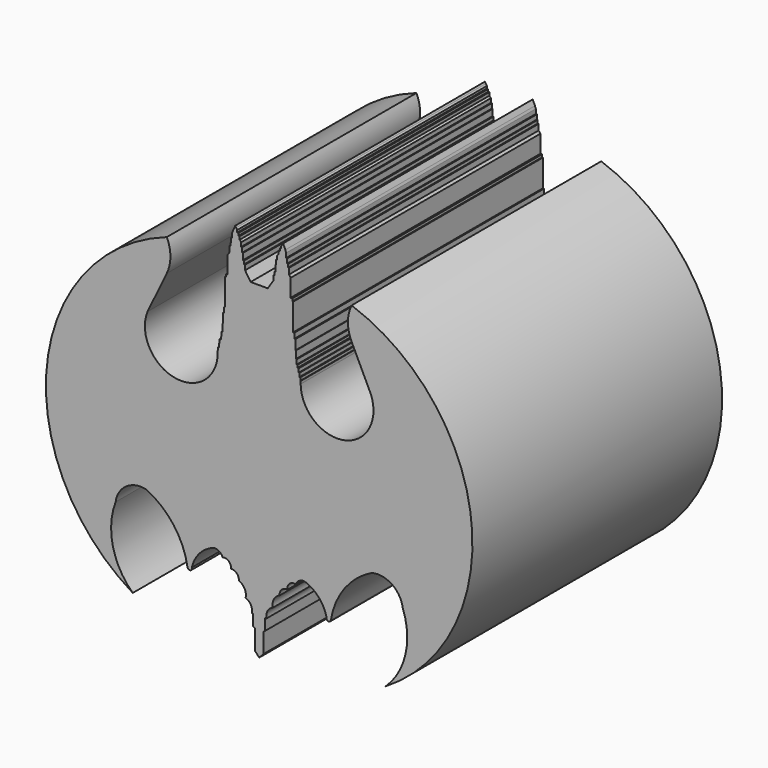
from build123d import *

# Parameters (mm, degrees)
F1_DEPTH = 25.4


with BuildPart() as f1:
    # F0 (on Front) → F1 (new body)
    with BuildSketch(Plane.XZ):
        with BuildLine():
            ThreePointArc((11.683757, -9.757952), (11.910295, -13.005869), (10.289053, -15.829317))
            ThreePointArc((10.289053, -15.829317), (17.279713, -1.751364), (7.521968, 10.571157))
            ThreePointArc((7.521968, 10.571157), (7.225303, 9.272076), (7.521968, 7.972996))
            Line((7.521968, 7.972996), (9.089584, 4.719736))
            ThreePointArc((9.089584, 4.719736), (6.917131, 0.708181), (3.376378, 3.584845))
            Line((3.376378, 3.584845), (3.376378, 3.804322))
            Line((3.376378, 3.804322), (3.344805, 3.804322))
            Line((3.344805, 3.804322), (3.344805, 4.047158))
            Line((3.344805, 4.047158), (3.268356, 4.047158))
            Line((3.268356, 4.047158), (3.268356, 4.348455))
            Line((3.268356, 4.348455), (3.218889, 4.348455))
            Line((3.218889, 4.348455), (3.218889, 4.654248))
            Line((3.218889, 4.654248), (3.110962, 4.654248))
            Line((3.110962, 4.654248), (3.110962, 4.8746))
            Line((3.110962, 4.8746), (3.052502, 4.8746))
            Line((3.052502, 4.8746), (3.052502, 5.247848))
            Line((3.052502, 5.247848), (2.98055, 5.247848))
            Line((2.98055, 5.247848), (2.98055, 5.855694))
            Line((2.98055, 5.855694), (2.941553, 5.855694))
            Line((2.941553, 5.855694), (2.941553, 6.657867))
            Line((2.941553, 6.657867), (2.855988, 6.657867))
            Line((2.855988, 6.657867), (2.855988, 7.089451))
            Line((2.855988, 7.089451), (2.765684, 7.089451))
            Line((2.765684, 7.089451), (2.765684, 7.641547))
            Line((2.765684, 7.641547), (2.765684, 9.285447))
            Line((2.765684, 9.285447), (2.69841, 9.285447))
            Line((2.69841, 9.285447), (2.69841, 9.501676))
            Line((2.69841, 9.501676), (2.564857, 9.501676))
            Line((2.564857, 9.501676), (2.564857, 10.264836))
            Line((2.564857, 10.264836), (2.564857, 10.934666))
            Line((2.564857, 10.934666), (2.42448, 11.120381))
            Line((2.42448, 11.120381), (2.42448, 11.597059))
            Line((2.42448, 11.597059), (2.352529, 11.597059))
            Line((2.352529, 11.597059), (2.352529, 11.857883))
            Line((2.352529, 11.857883), (2.280578, 11.857883))
            Line((2.280578, 11.857883), (2.280578, 12.235628))
            Line((2.280578, 12.235628), (2.199632, 12.235628))
            Line((2.199632, 12.235628), (2.199632, 12.451482))
            Line((2.199632, 12.451482), (2.199632, 12.604379))
            Line((2.199632, 12.604379), (2.12768, 12.793251))
            Line((2.12768, 12.793251), (1.947802, 13.197979))
            Line((1.947802, 13.197979), (1.875851, 13.072063))
            Line((1.875851, 13.072063), (1.785911, 12.946148))
            Line((1.785911, 12.946148), (1.785911, 12.757276))
            Line((1.785911, 12.757276), (1.686978, 12.757276))
            Line((1.686978, 12.757276), (1.686978, 12.559409))
            Line((1.686978, 12.559409), (1.588045, 12.559409))
            Line((1.588045, 12.559409), (1.588045, 12.30758))
            Line((1.588045, 12.30758), (1.46213, 12.17267))
            Line((1.46213, 12.17267), (1.46213, 11.839896))
            Line((1.46213, 11.839896), (1.381184, 11.839896))
            Line((1.381184, 11.839896), (1.381184, 11.453156))
            Line((1.381184, 11.453156), (1.318227, 11.453156))
            Line((1.318227, 11.453156), (1.318227, 10.934666))
            Line((1.318227, 10.934666), (1.228288, 10.934666))
            Line((1.228288, 10.934666), (1.228288, 10.66169))
            Line((1.228288, 10.66169), (1.147342, 10.66169))
            Line((1.147342, 10.66169), (1.147342, 10.264836))
            Line((1.147342, 10.264836), (0.697646, 9.573425))
            Line((0.697646, 9.573425), (0, 9.573425))
            Line((0, 9.573425), (-0.697646, 9.573425))
            Line((-0.697646, 9.573425), (-1.147342, 10.264836))
            Line((-1.147342, 10.264836), (-1.147342, 10.66169))
            Line((-1.147342, 10.66169), (-1.228288, 10.66169))
            Line((-1.228288, 10.66169), (-1.228288, 10.934666))
            Line((-1.228288, 10.934666), (-1.318227, 10.934666))
            Line((-1.318227, 10.934666), (-1.318227, 11.453156))
            Line((-1.318227, 11.453156), (-1.381184, 11.453156))
            Line((-1.381184, 11.453156), (-1.381184, 11.839896))
            Line((-1.381184, 11.839896), (-1.46213, 11.839896))
            Line((-1.46213, 11.839896), (-1.46213, 12.17267))
            Line((-1.46213, 12.17267), (-1.588045, 12.30758))
            Line((-1.588045, 12.30758), (-1.588045, 12.559409))
            Line((-1.588045, 12.559409), (-1.686978, 12.559409))
            Line((-1.686978, 12.559409), (-1.686978, 12.757276))
            Line((-1.686978, 12.757276), (-1.785911, 12.757276))
            Line((-1.785911, 12.757276), (-1.785911, 12.946148))
            Line((-1.785911, 12.946148), (-1.875851, 13.072063))
            Line((-1.875851, 13.072063), (-1.947802, 13.197979))
            Line((-1.947802, 13.197979), (-2.12768, 12.793251))
            Line((-2.12768, 12.793251), (-2.199632, 12.604379))
            Line((-2.199632, 12.604379), (-2.199632, 12.451482))
            Line((-2.199632, 12.451482), (-2.199632, 12.235628))
            Line((-2.199632, 12.235628), (-2.280578, 12.235628))
            Line((-2.280578, 12.235628), (-2.280578, 11.857883))
            Line((-2.280578, 11.857883), (-2.352529, 11.857883))
            Line((-2.352529, 11.857883), (-2.352529, 11.597059))
            Line((-2.352529, 11.597059), (-2.42448, 11.597059))
            Line((-2.42448, 11.597059), (-2.42448, 11.120381))
            Line((-2.42448, 11.120381), (-2.564857, 10.934666))
            Line((-2.564857, 10.934666), (-2.564857, 10.264836))
            Line((-2.564857, 10.264836), (-2.564857, 9.501676))
            Line((-2.564857, 9.501676), (-2.69841, 9.501676))
            Line((-2.69841, 9.501676), (-2.69841, 9.285447))
            Line((-2.69841, 9.285447), (-2.765684, 9.285447))
            Line((-2.765684, 9.285447), (-2.765684, 7.641547))
            Line((-2.765684, 7.641547), (-2.765684, 7.089451))
            Line((-2.765684, 7.089451), (-2.855988, 7.089451))
            Line((-2.855988, 7.089451), (-2.855988, 6.657867))
            Line((-2.855988, 6.657867), (-2.941553, 6.657867))
            Line((-2.941553, 6.657867), (-2.941553, 5.855694))
            Line((-2.941553, 5.855694), (-2.98055, 5.855694))
            Line((-2.98055, 5.855694), (-2.98055, 5.247848))
            Line((-2.98055, 5.247848), (-3.052502, 5.247848))
            Line((-3.052502, 5.247848), (-3.052502, 4.8746))
            Line((-3.052502, 4.8746), (-3.110962, 4.8746))
            Line((-3.110962, 4.8746), (-3.110962, 4.654248))
            Line((-3.110962, 4.654248), (-3.218889, 4.654248))
            Line((-3.218889, 4.654248), (-3.218889, 4.348455))
            Line((-3.218889, 4.348455), (-3.268356, 4.348455))
            Line((-3.268356, 4.348455), (-3.268356, 4.047158))
            Line((-3.268356, 4.047158), (-3.344805, 4.047158))
            Line((-3.344805, 4.047158), (-3.344805, 3.804322))
            Line((-3.344805, 3.804322), (-3.376378, 3.804322))
            Line((-3.376378, 3.804322), (-3.376378, 3.584845))
            ThreePointArc((-3.376378, 3.584845), (-6.917131, 0.708181), (-9.089584, 4.719736))
            Line((-9.089584, 4.719736), (-7.521968, 7.972996))
            ThreePointArc((-7.521968, 7.972996), (-7.225303, 9.272076), (-7.521968, 10.571157))
            ThreePointArc((-7.521968, 10.571157), (-17.279713, -1.751364), (-10.289053, -15.829317))
            ThreePointArc((-10.289053, -15.829317), (-11.910295, -13.005869), (-11.683757, -9.757952))
            ThreePointArc((-11.683757, -9.757952), (-10.801152, -8.348372), (-9.162284, -8.065494))
            ThreePointArc((-9.162284, -8.065494), (-6.955625, -9.887781), (-5.836201, -12.521592))
            ThreePointArc((-5.836201, -12.521592), (-5.616042, -12.688557), (-5.483937, -12.445873))
            ThreePointArc((-5.483937, -12.445873), (-4.875184, -11.247178), (-3.772633, -10.477873))
            ThreePointArc((-3.772633, -10.477873), (-3.293187, -10.529047), (-2.987732, -10.902121))
            ThreePointArc((-2.987732, -10.902121), (-2.478858, -11.006497), (-2.304193, -11.49572))
            ThreePointArc((-2.304193, -11.49572), (-1.83181, -11.65766), (-1.65663, -12.125296))
            ThreePointArc((-1.65663, -12.125296), (-1.189071, -12.556765), (-1.099007, -13.186579))
            ThreePointArc((-1.099007, -13.186579), (-0.677638, -13.56305), (-0.591807, -14.121543))
            Line((-0.591807, -14.121543), (-0.484851, -14.121543))
            Line((-0.484851, -14.121543), (-0.484851, -15.041369))
            Line((-0.484851, -15.041369), (-0.335112, -15.13763))
            Line((-0.335112, -15.13763), (-0.335112, -16.196499))
            Line((-0.335112, -16.196499), (-0.335112, -16.755452))
            Line((-0.335112, -16.755452), (-0.192083, -16.906712))
            Line((-0.192083, -16.906712), (0, -17.118476))
            Line((0, -17.118476), (0.192083, -16.906712))
            Line((0.192083, -16.906712), (0.335112, -16.755452))
            Line((0.335112, -16.755452), (0.335112, -16.196499))
            Line((0.335112, -16.196499), (0.335112, -15.13763))
            Line((0.335112, -15.13763), (0.484851, -15.041369))
            Line((0.484851, -15.041369), (0.484851, -14.121543))
            Line((0.484851, -14.121543), (0.591807, -14.121543))
            ThreePointArc((0.591807, -14.121543), (0.677638, -13.56305), (1.099007, -13.186579))
            ThreePointArc((1.099007, -13.186579), (1.189071, -12.556765), (1.65663, -12.125296))
            ThreePointArc((1.65663, -12.125296), (1.83181, -11.65766), (2.304193, -11.49572))
            ThreePointArc((2.304193, -11.49572), (2.478858, -11.006497), (2.987732, -10.902121))
            ThreePointArc((2.987732, -10.902121), (3.293187, -10.529047), (3.772633, -10.477873))
            ThreePointArc((3.772633, -10.477873), (4.875184, -11.247178), (5.483937, -12.445873))
            ThreePointArc((5.483937, -12.445873), (5.616042, -12.688557), (5.836201, -12.521592))
            ThreePointArc((5.836201, -12.521592), (6.955625, -9.887781), (9.162284, -8.065494))
            ThreePointArc((9.162284, -8.065494), (10.801152, -8.348372), (11.683757, -9.757952))
        make_face()
    extrude(amount=F1_DEPTH)


solid = f1.part
